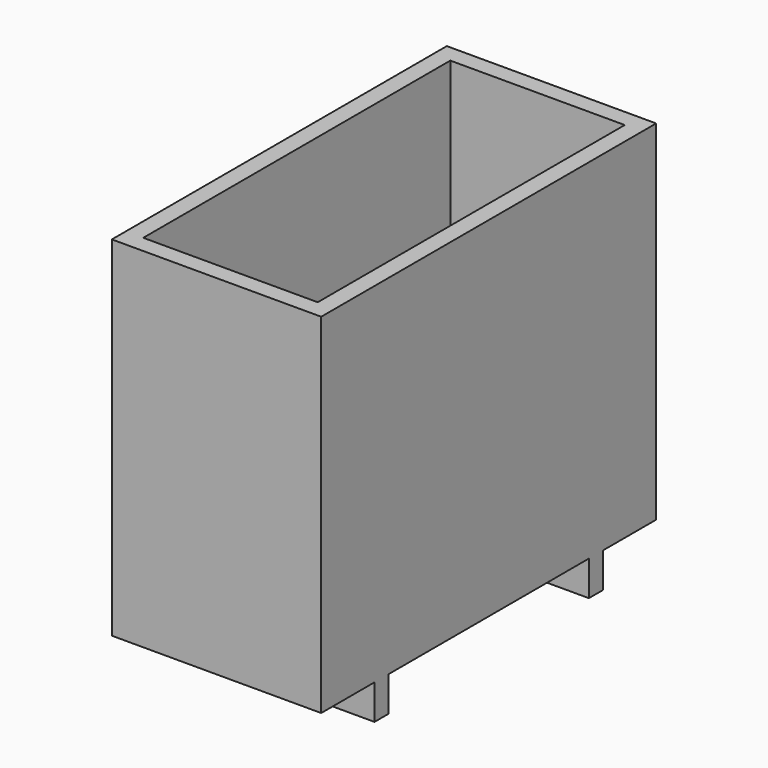
from build123d import *

# Parameters (mm, degrees)
F0_W     = 600
F0_H     = 1200
F1_DEPTH = 500
F2_T     = -50
F3_W     = 50
F3_H     = 100
F4_DEPTH = 300


with BuildPart() as f1:
    # F0 (on Top) → F1 (new body, symmetric)
    with BuildSketch(Plane.XY):
        Rectangle(F0_W, F0_H)
    extrude(amount=F1_DEPTH, both=True)

    # F2
    f2_openings = [f1.faces().sort_by_distance(p)[0] for p in [
        (0, 0, 500),
    ]]
    offset(amount=F2_T, openings=f2_openings)

    # F3 (on Right) → F4 (join, symmetric)
    with BuildSketch(Plane.YZ):
        with Locations((-384.018666, -550)):
            Rectangle(F3_W, F3_H)
        with Locations((384.018666, -550)):
            Rectangle(F3_W, F3_H)
    extrude(amount=F4_DEPTH, both=True)


solid = f1.part
